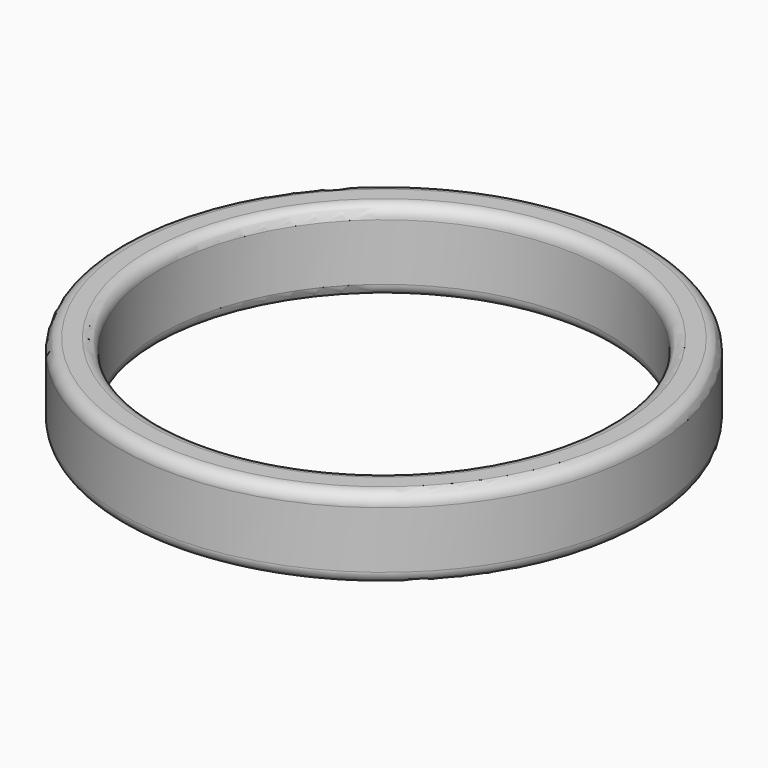
from build123d import *


with BuildPart() as f1:
    # F0 (on Front) → F1 (revolve)
    with BuildSketch(Plane.XZ):
        with BuildLine():
            Line((-29, 31.328705), (-31, 31.328705))
            ThreePointArc((-31, 31.328705), (-32.06066, 30.889366), (-32.5, 29.828705))
            Line((-32.5, 29.828705), (-32.5, 22.828705))
            ThreePointArc((-32.5, 22.828705), (-32.06066, 21.768045), (-31, 21.328705))
            Line((-31, 21.328705), (-29, 21.328705))
            ThreePointArc((-29, 21.328705), (-27.93934, 21.768045), (-27.5, 22.828705))
            Line((-27.5, 22.828705), (-27.5, 29.828705))
            ThreePointArc((-27.5, 29.828705), (-27.93934, 30.889366), (-29, 31.328705))
        make_face()
    revolve(axis=Axis((0, 0, 21.229779), (0, 0, -1)))


solid = f1.part
